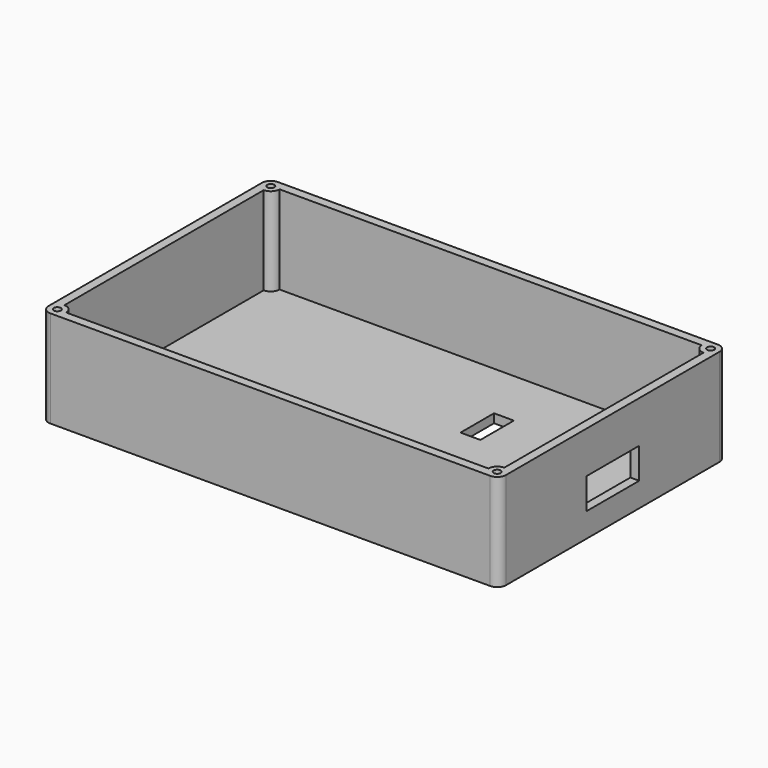
from build123d import *

# Parameters (mm, degrees)
F0_W      = 103.75
F0_H      = 64.5
F1_DEPTH  = 22
F2_T      = -2
F3_W      = 15
F3_H      = 7
F4_DEPTH  = 381
F5_R      = 2
F6_W      = 4.5
F6_H      = 9.5
F7_DEPTH  = 12.7
F8_R      = 2
F9_DEPTH  = 22
F10_R     = 2
F11_DEPTH = 20
F12_R     = 2
F13_DEPTH = 20
F14_R     = 2
F15_DEPTH = 22
F16_R     = 0.8
F17_DEPTH = 5.6
F18_R     = 0.8
F19_DEPTH = 5.6
F20_R     = 0.8
F21_DEPTH = 5.6
F22_R     = 0.8
F23_DEPTH = 5.6


with BuildPart() as f1:
    # F0 (on Top) → F1 (new body)
    with BuildSketch(Plane.XY):
        Rectangle(F0_W, F0_H)
    extrude(amount=F1_DEPTH)

    # F2
    f2_openings = [f1.faces().sort_by_distance(p)[0] for p in [
        (0, 0, 22),
    ]]
    offset(amount=F2_T, openings=f2_openings)

    # F3 (on Right) → F4 (cut)
    with BuildSketch(Plane.YZ):
        with Locations((0, 9)):
            Rectangle(F3_W, F3_H)
    extrude(amount=F4_DEPTH, mode=Mode.SUBTRACT)

    # F5
    f5_edges = [f1.edges().sort_by_distance(p)[0] for p in [
        (-51.875, 32.25, 11),
        (-51.875, -32.25, 11),
        (51.875, -32.25, 11),
        (51.875, 32.25, 11),
    ]]
    fillet(f5_edges, radius=F5_R)

    # F6 (on Top) → F7 (cut, symmetric)
    with BuildSketch(Plane.XY):
        with Locations((13.673813, 12.159993)):
            Rectangle(F6_W, F6_H)
    extrude(amount=F7_DEPTH, both=True, mode=Mode.SUBTRACT)

    # F8 (on Top) → F9 (join)
    with BuildSketch(Plane.XY):
        with Locations((-49.875, 30.25)):
            Circle(F8_R)
    extrude(amount=F9_DEPTH)

    # F10 (on face) → F11 (join)
    with BuildSketch(Plane.XY.offset(2)):
        with Locations((-49.875, -30.25)):
            Circle(F10_R)
    extrude(amount=F11_DEPTH)

    # F12 (on face) → F13 (join)
    with BuildSketch(Plane.XY.offset(2)):
        with Locations((49.875, -30.25)):
            Circle(F12_R)
    extrude(amount=F13_DEPTH)

    # F14 (on Top) → F15 (join)
    with BuildSketch(Plane.XY):
        with Locations((49.875, 30.25)):
            Circle(F14_R)
    extrude(amount=F15_DEPTH)

    # F16 (on face) → F17 (cut)
    with BuildSketch(Plane.XY.offset(22)):
        with Locations((-49.875, 30.25)):
            Circle(F16_R)
    extrude(amount=-F17_DEPTH, mode=Mode.SUBTRACT)

    # F18 (on face) → F19 (cut)
    with BuildSketch(Plane.XY.offset(22)):
        with Locations((-49.875, -30.25)):
            Circle(F18_R)
    extrude(amount=-F19_DEPTH, mode=Mode.SUBTRACT)

    # F20 (on face) → F21 (cut)
    with BuildSketch(Plane.XY.offset(22)):
        with Locations((49.875, -30.25)):
            Circle(F20_R)
    extrude(amount=-F21_DEPTH, mode=Mode.SUBTRACT)

    # F22 (on face) → F23 (cut)
    with BuildSketch(Plane.XY.offset(22)):
        with Locations((49.875, 30.25)):
            Circle(F22_R)
    extrude(amount=-F23_DEPTH, mode=Mode.SUBTRACT)


solid = f1.part
